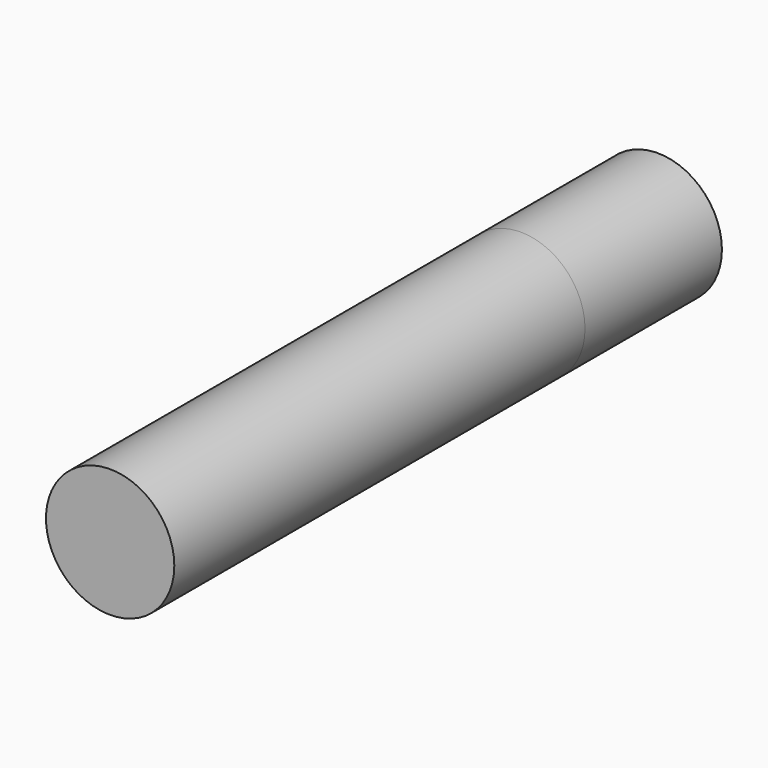
from build123d import *

# Parameters (mm, degrees)
F0_R     = 19.05
F1_DEPTH = 50.8
F2_DEPTH = 50.8
F3_DEPTH = 50.8


with BuildPart() as f1:
    # F0 (on Front) → F1 (new body, symmetric)
    with BuildSketch(Plane.XZ):
        Circle(F0_R)
    extrude(amount=F1_DEPTH, both=True)

    # F2 (add): a face of the model
    f2_faces = [f1.faces().sort_by_distance(p)[0] for p in [
        (0, -50.8, 0),
    ]]
    extrude(f2_faces, amount=F2_DEPTH)

    # F3 (add): a face of the model
    f3_faces = [f1.faces().sort_by_distance(p)[0] for p in [
        (0, 50.8, 0),
    ]]
    extrude(f3_faces, amount=F3_DEPTH)


solid = f1.part
